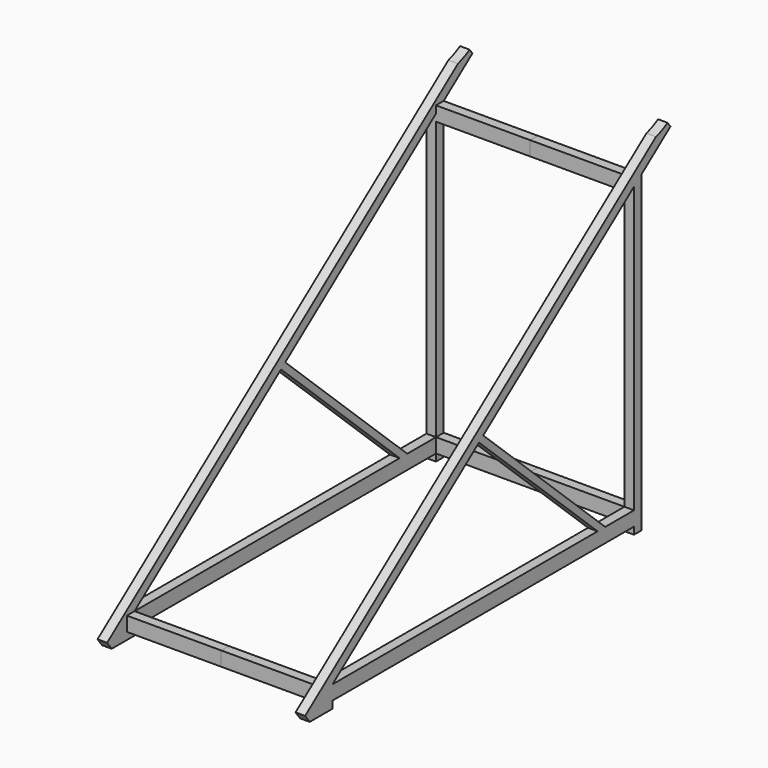
from build123d import *

# Parameters (mm, degrees)
F0_W      = 50.8
F0_H      = 76.2
F1_DEPTH  = 2000
F3_DEPTH  = 50.8
F5_DEPTH  = 50.8
F6_W      = 50.8
F6_H      = 76.2
F7_DEPTH  = 500
F9_DEPTH  = 50.8
F12_DEPTH = 1050.801
F14_DEPTH = 50.8


with BuildPart() as f1:
    # F0 (on Front) → F1 (new body)
    with BuildSketch(Plane.XZ):
        with Locations((525.4, 38.1)):
            Rectangle(F0_W, F0_H)
    extrude(amount=-F1_DEPTH)

    # F2 (on face) → F3 (join)
    with BuildSketch(Plane(origin=(0, 2000, 0), x_dir=(-1, 0, 0), z_dir=(0, 1, 0))):
        Polygon((-550.8, 1588.1), (-550.8, 38.1), (-550.8, -38.1), (-500, -38.1), (-500, 38.1), (-500, 1588.1), align=None)
    extrude(amount=F3_DEPTH)

    # F4 (on face) → F5 (join)
    with BuildSketch(Plane.YZ.offset(550.8)):
        Polygon((2050.8, 1626.50226), (2000, 1588.1), (2050.8, 1588.1), align=None)
        Polygon((-151.200476, -38.1), (0, 76.2), (2000, 1588.1), (2050.8, 1626.50226), (2241.947392, 1771.000131), (2211.313296, 1811.524101), (-181.834572, 2.423971), align=None)
        Polygon((0, 0), (0, 76.2), (-151.200476, -38.1), (0, -38.1), align=None)
    extrude(amount=-F5_DEPTH)

    # F6 (on face) → F7 (join)
    with BuildSketch(Plane(origin=(500, 0, 0), x_dir=(0, -1, 0), z_dir=(-1, 0, 0))):
        with Locations((25.4, 38.1)):
            Rectangle(F6_W, F6_H)
        with Locations((-2025.4, 38.1)):
            Rectangle(F6_W, F6_H)
        with Locations((-2025.4, 1588.40226)):
            Rectangle(F6_W, F6_H)
    extrude(amount=F7_DEPTH)

    # F11 (on face) → F12 (cut, through all)
    with BuildSketch(Plane.YZ.offset(550.8)):
        with BuildLine():
            ThreePointArc((2145.501875, 1761.773958), (2185.28513, 1776.530063), (2222.847627, 1796.266041))
            Line((2222.847627, 1796.266041), (2211.313296, 1811.524101))
            Line((2211.313296, 1811.524101), (2145.501875, 1761.773958))
        make_face()
    extrude(amount=-F12_DEPTH, mode=Mode.SUBTRACT)

    # F13 (on face) → F14 (join)
    with BuildSketch(Plane.YZ.offset(550.8)):
        Polygon((1758.522357, 76.2), (1809.322357, 76.2), (1000, 832.15), (971.92319, 810.925336), align=None)
    extrude(amount=-F14_DEPTH)


with BuildPart() as f9:
    # F8 (on face) → F9 (new body)
    with BuildSketch(Plane(origin=(0, 2050.8, 0), x_dir=(-1, 0, 0), z_dir=(0, 1, 0))):
        Polygon((-500, 1270.90226), (-500, 1220.10226), (-39.943245, 927.55113), (0, 952.95113), align=None)
        Polygon((-500, 635), (-500, 584.2), (0, 902.15113), (-39.943245, 927.55113), align=None)
        Polygon((39.943245, 927.55113), (0, 902.15113), (500, 584.2), (500, 635), align=None)
        Polygon((0, 952.95113), (39.943245, 927.55113), (500, 1220.10226), (500, 1270.90226), align=None)
        Polygon((-500, 1270.90226), (-500, 1220.10226), (-39.943245, 927.55113), (0, 952.95113), align=None)
    extrude(amount=-F9_DEPTH)


with BuildPart() as f15_1:
    # F15: instance of F1
    add(f1.part.mirror(Plane(origin=(0, 2025.4, 38.1), x_dir=(0, -1, 0), z_dir=(-1, 0, 0))))


with BuildPart() as f15_2:
    # F15: instance of F9
    add(f9.part.mirror(Plane(origin=(0, 2025.4, 38.1), x_dir=(0, -1, 0), z_dir=(-1, 0, 0))))


solid = Compound([f1.part, f15_1.part])
